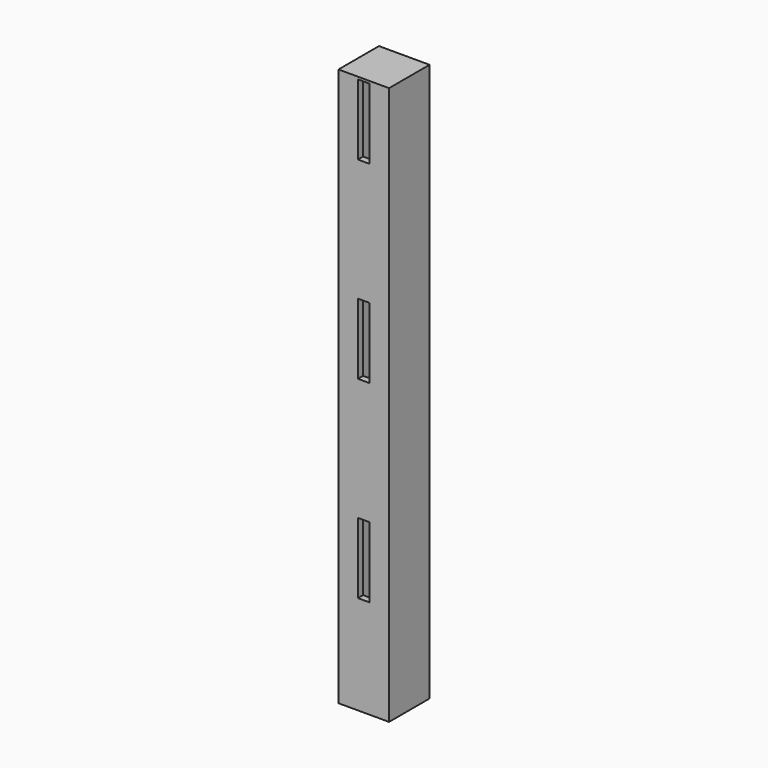
from build123d import *

# Parameters (mm, degrees)
F0_W     = 21.5
F0_H     = 21.5
F0_W_2   = 16
F0_H_2   = 16
F1_DEPTH = 237
F2_W     = 5
F2_H     = 30
F2_H_2   = 15
F3_DEPTH = 2.75
F4_W     = 16
F4_H     = 16
F5_DEPTH = 236
F6_W     = 16
F6_H     = 16
F7_DEPTH = 1


with BuildPart() as f1:
    # F0 (on Top) → F1 (new body)
    with BuildSketch(Plane.XY):
        with Locations((-10.75, 10.75)):
            Rectangle(F0_W, F0_H)
        with Locations((-10.75, 10.75)):
            Rectangle(F0_W_2, F0_H_2, mode=Mode.SUBTRACT)
        with Locations((-10.75, 10.75)):
            Rectangle(F0_W_2, F0_H_2)
    extrude(amount=F1_DEPTH)

    # F2 (on face) → F3 (cut)
    with BuildSketch(Plane.XZ):
        with Locations((-10.75, 221)):
            Rectangle(F2_W, F2_H)
        with Locations((-10.75, 146.5)):
            Rectangle(F2_W, F2_H_2)
        with Locations((-10.75, 131.5)):
            Rectangle(F2_W, F2_H_2)
        with Locations((-10.75, 57)):
            Rectangle(F2_W, F2_H)
    extrude(amount=-F3_DEPTH, mode=Mode.SUBTRACT)

    # F4 (on face) → F5 (cut)
    with BuildSketch(Plane(origin=(0, 0, 0), x_dir=(1, 0, 0), z_dir=(0, 0, -1))):
        with Locations((-10.75, -10.75)):
            Rectangle(F4_W, F4_H)
    extrude(amount=-F5_DEPTH, mode=Mode.SUBTRACT)

    # F6 (on face) → F7 (join)
    with BuildSketch(Plane(origin=(0, 0, 0), x_dir=(1, 0, 0), z_dir=(0, 0, -1))):
        with Locations((-10.75, -10.75)):
            Rectangle(F6_W, F6_H)
    extrude(amount=-F7_DEPTH)


solid = f1.part
